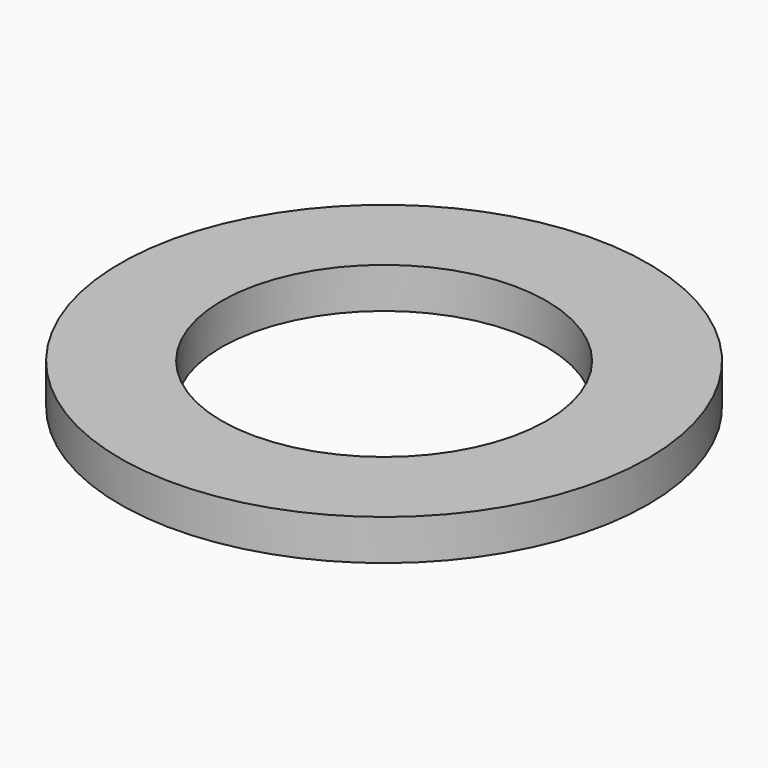
from build123d import *

# Parameters (mm, degrees)
CYLINDER007_R     = 0.4
CYLINDER007_DEPTH = 0.1
CYLINDER006_R     = 0.65
CYLINDER006_DEPTH = 0.1


with BuildPart() as cylinder007:
    # Cylinder007 → Cylinder007 (new body)
    with BuildSketch(Plane.XY.offset(1.62)):
        Circle(CYLINDER007_R)
    extrude(amount=CYLINDER007_DEPTH)


with BuildPart() as cut009:
    # Cylinder006 → Cylinder006 (new body)
    with BuildSketch(Plane.XY.offset(1.62)):
        Circle(CYLINDER006_R)
    extrude(amount=CYLINDER006_DEPTH)

    # Cut009: cut Cylinder007
    add(cylinder007.part, mode=Mode.SUBTRACT)


with BuildPart() as cut009_1:
    # Cut009 placement: moved
    add(cut009.part.moved(Location((11.26, 12.7, 0))))


solid = cut009_1.part
